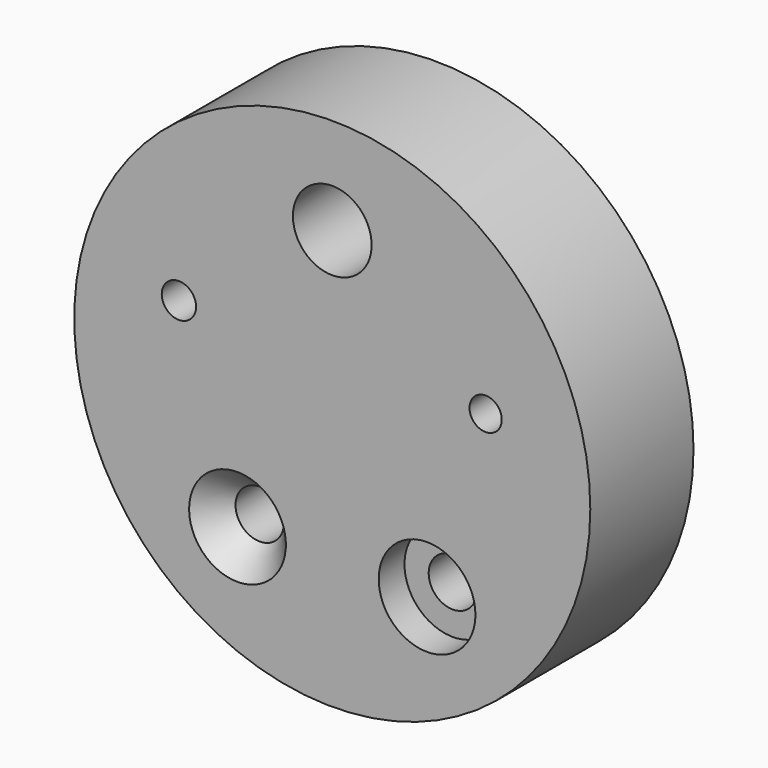
from build123d import *

# Parameters (mm, degrees)
F0_R           = 50.8
F1_DEPTH       = 25.4
F3_D           = 6.35
F4_D           = 9.525
F4_CBORE_D     = 19.05
F4_CBORE_DEPTH = 6.35
F5_D           = 9.525
F5_CSINK_D     = 19.05
F5_CSINK_ANGLE = 82
F6_D           = 6.7564
F7_D           = 15.5


with BuildPart() as f1:
    # F0 (on Front) → F1 (new body)
    with BuildSketch(Plane.XZ):
        Circle(F0_R)
    extrude(amount=F1_DEPTH)

    # F3 (through all)
    with Locations(Plane.XZ.offset(25.4)):
        with Locations((30.1960443924, 9.8112895714)):
            Hole(F3_D / 2)

    # F4 (through all)
    with Locations(Plane.XZ.offset(25.4)):
        with Locations((18.6621817603, -25.6862895714)):
            CounterBoreHole(F4_D / 2, F4_CBORE_D / 2, F4_CBORE_DEPTH)

    # F5 (through all)
    with Locations(Plane.XZ.offset(25.4)):
        with Locations((-18.6621817603, -25.6862895714)):
            CounterSinkHole(F5_D / 2, F5_CSINK_D / 2, counter_sink_angle=F5_CSINK_ANGLE)

    # F6 (through all)
    with Locations(Plane.XZ.offset(25.4)):
        with Locations((-30.1960443924, 9.8112895714)):
            Hole(F6_D / 2)

    # F7 (through all)
    with Locations(Plane.XZ.offset(25.4)):
        with Locations((0, 31.75)):
            Hole(F7_D / 2)


solid = f1.part
